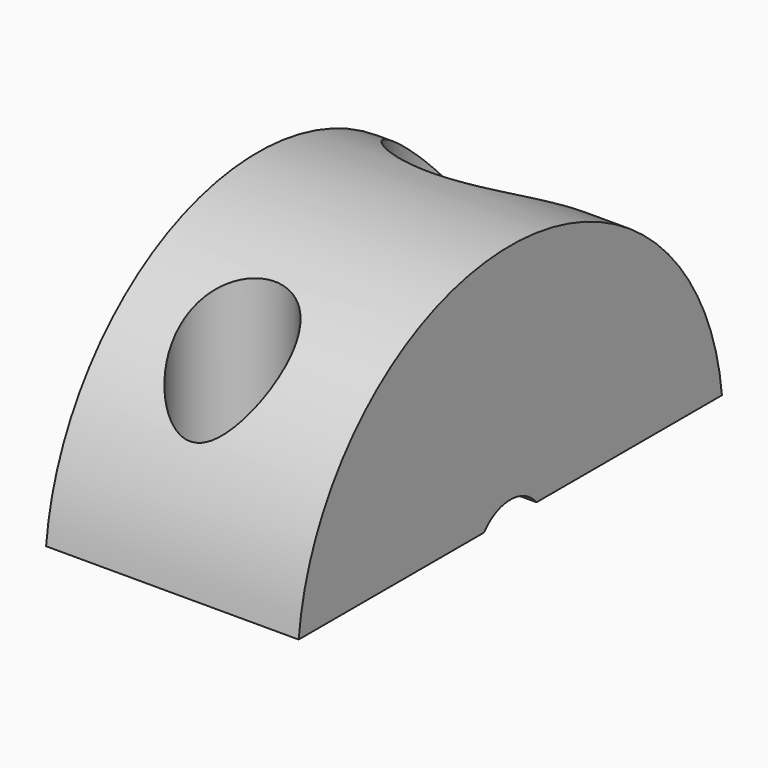
from build123d import *

# Parameters (mm, degrees)
F1_DEPTH = 9.5
F2_R     = 2
F3_DEPTH = 9.001
F5_R     = 3.75
F6_DEPTH = 5


with BuildPart() as f1:
    # F0 (on Right) → F1 (new body)
    with BuildSketch(Plane.YZ):
        with BuildLine():
            Line((1.232946, 1), (9.949874, 1))
            ThreePointArc((9.949874, 1), (0, 10), (-9.949874, 1))
            Line((-9.949874, 1), (-1.232946, 1))
            ThreePointArc((-1.232946, 1), (0, 1.5875), (1.232946, 1))
        make_face()
    extrude(amount=F1_DEPTH)

    # F2 (on face) → F3 (cut, through all)
    with BuildSketch(Plane(origin=(0, 0, 1), x_dir=(1, 0, 0), z_dir=(0, 0, -1))):
        with Locations((4.25, 6.5)):
            Circle(F2_R)
        with Locations((4.25, -6.5)):
            Circle(F2_R)
    extrude(amount=-F3_DEPTH, mode=Mode.SUBTRACT)

    # F5 (on offset) → F6 (cut)
    with BuildSketch(Plane.XY.offset(10)):
        with Locations((4.25, 6.5)):
            Circle(F5_R)
    extrude(amount=-F6_DEPTH, mode=Mode.SUBTRACT)


solid = f1.part
